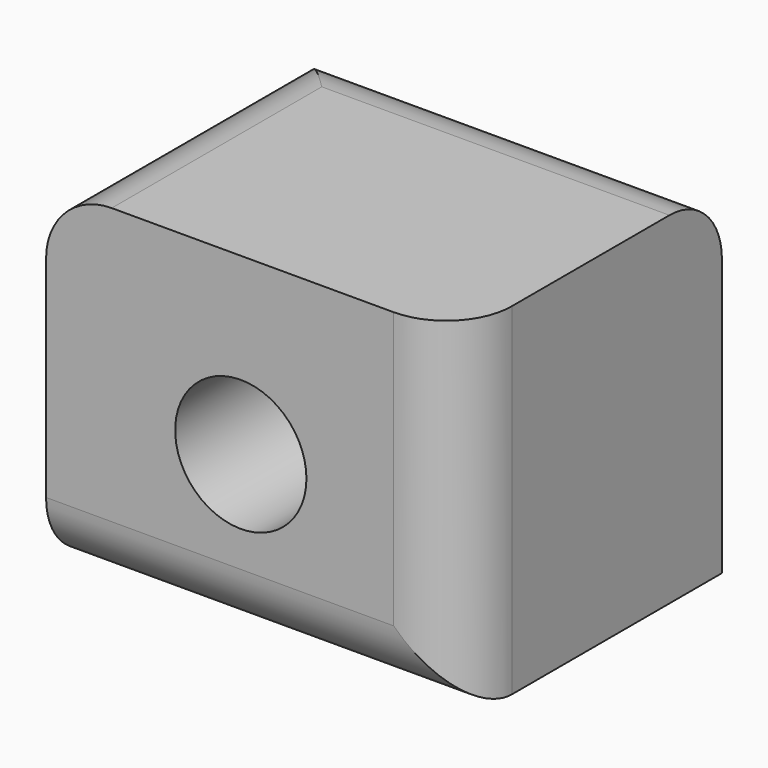
from build123d import *

# Parameters (mm, degrees)
F0_W     = 31.984137
F0_H     = 26.448421
F0_R     = 5.08
F1_DEPTH = 12.7
F2_R     = 5.08


with BuildPart() as f1:
    # F0 (on Front) → F1 (new body, symmetric)
    with BuildSketch(Plane.XZ):
        with Locations((-38.442476, 39.980176)):
            Rectangle(F0_W, F0_H)
        with Locations((-39.365098, 39.672639)):
            Circle(F0_R, mode=Mode.SUBTRACT)
    extrude(amount=F1_DEPTH, both=True)

    # F2
    f2_edges = [f1.edges().sort_by_distance(p)[0] for p in [
        (-38.442477, 12.7, 53.204387),
        (-54.434545, 0, 53.204387),
        (-22.450408, -12.7, 39.980177),
        (-38.442477, -12.7, 26.755966),
    ]]
    fillet(f2_edges, radius=F2_R)


solid = f1.part
